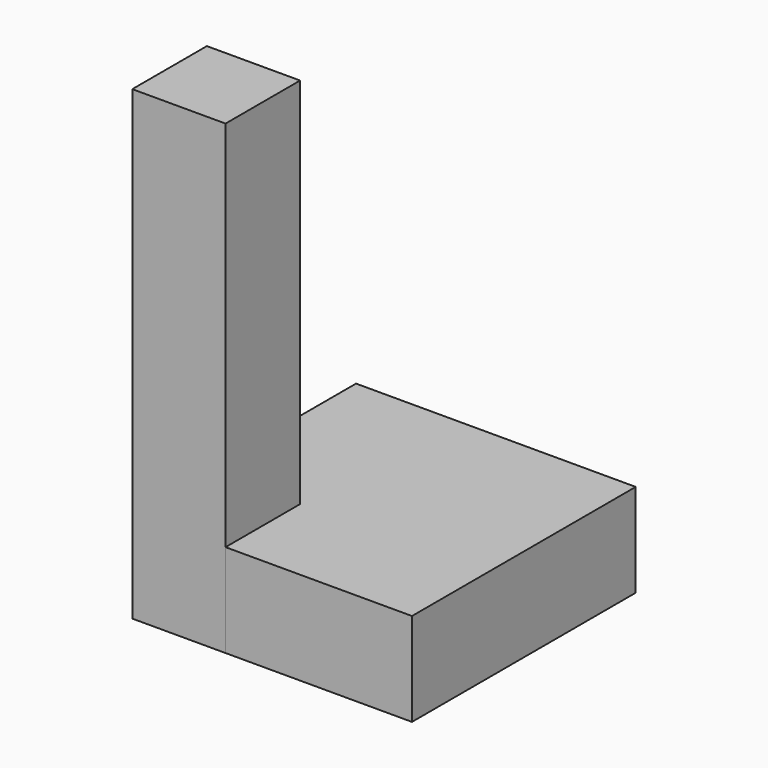
from build123d import *

# Parameters (mm, degrees)
BOX_W        = 30
BOX_H        = 30
BOX_DEPTH    = 10
BOX001_W     = 10
BOX001_H     = 10
BOX001_DEPTH = 50


with BuildPart() as cube01:
    # Box → Box (new body)
    with BuildSketch(Plane.XY):
        with Locations((15, 15)):
            Rectangle(BOX_W, BOX_H)
    extrude(amount=BOX_DEPTH)


with BuildPart() as cubo02:
    # Box001 → Box001 (new body)
    with BuildSketch(Plane.XY):
        with Locations((5, 5)):
            Rectangle(BOX001_W, BOX001_H)
    extrude(amount=BOX001_DEPTH)


solid = Compound([cube01.part, cubo02.part])
